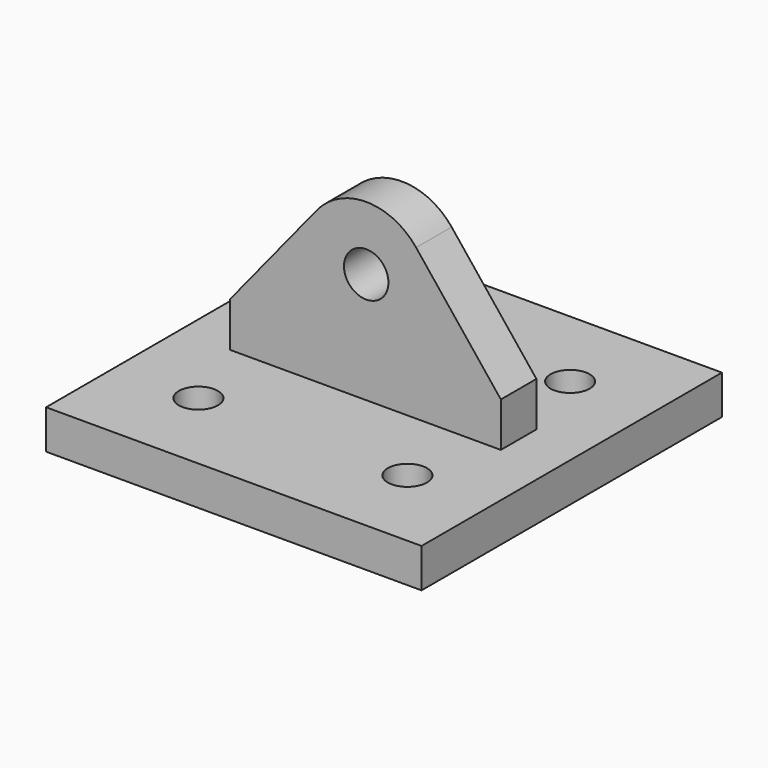
from build123d import *

# Parameters (mm, degrees)
F1_DEPTH = 18.034
F2_W     = 152.4
F2_H     = 152.4
F3_DEPTH = 15.875
F4_D     = 18.034
F5_D     = 15.875


with BuildPart() as f1:
    # F0 (on Front) → F1 (new body)
    with BuildSketch(Plane.XZ):
        with BuildLine():
            Line((0, 18.034), (0, 0))
            Line((0, 0), (109.982, 0))
            Line((109.982, 0), (109.982, 18.034))
            Line((109.982, 18.034), (75.5805723786, 61.1226751156))
            ThreePointArc((75.5805723786, 61.1226751156), (55.4585614287, 70.8657000818), (35.2437223557, 61.316766036))
            Line((35.2437223557, 61.316766036), (0, 18.034))
        make_face()
    extrude(amount=F1_DEPTH)

    # F2 (on Top) → F3 (join)
    with BuildSketch(Plane.XY):
        with Locations((55.3339, -9.017)):
            Rectangle(F2_W, F2_H)
    extrude(amount=-F3_DEPTH)

    # F4 (through all)
    with Locations(Plane(origin=(0, 0, 0), x_dir=(1, 0, 0), z_dir=(0, 1, 0))):
        with Locations((55.3339, -44.958)):
            Hole(F4_D / 2)

    # F5 (through all)
    with Locations(Plane.XY):
        with Locations((97.7519, -50.165), (12.9159, -50.165), (12.9159, 32.131), (97.7519, 32.385)):
            Hole(F5_D / 2)


solid = f1.part
